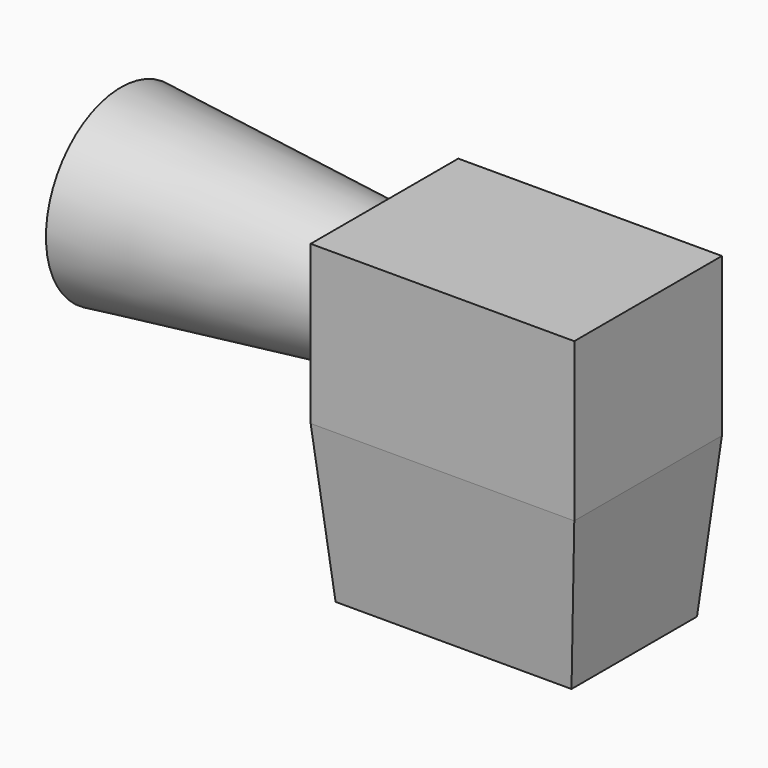
from build123d import *

# Parameters (mm, degrees)
F0_W      = 50
F0_H      = 30
F1_DEPTH  = 17.5
F1_FACE_W = 50
F1_FACE_H = 35
F2_DEPTH  = 30
F2_TAPER  = 5
F3_R      = 12.5
F4_DEPTH  = 50
F4_TAPER  = -6


with BuildPart() as f1:
    # F0 (on Front) → F1 (new body, symmetric)
    with BuildSketch(Plane.XZ):
        with Locations((25, 15)):
            Rectangle(F0_W, F0_H)
    extrude(amount=F1_DEPTH, both=True)


with BuildPart() as f2:
    # F1_face (on face) → F2 (new body)
    with BuildSketch(Plane(origin=(25, 0, 0), x_dir=(1, 0, 0), z_dir=(0, 0, -1))):
        Rectangle(F1_FACE_W, F1_FACE_H)
    extrude(amount=F2_DEPTH, taper=F2_TAPER)


with BuildPart() as f4:
    # F3 (on Right) → F4 (new body)
    with BuildSketch(Plane.YZ):
        with Locations((0, 15)):
            Circle(F3_R)
    extrude(amount=-F4_DEPTH, taper=F4_TAPER)


solid = Compound([f1.part, f2.part, f4.part])
